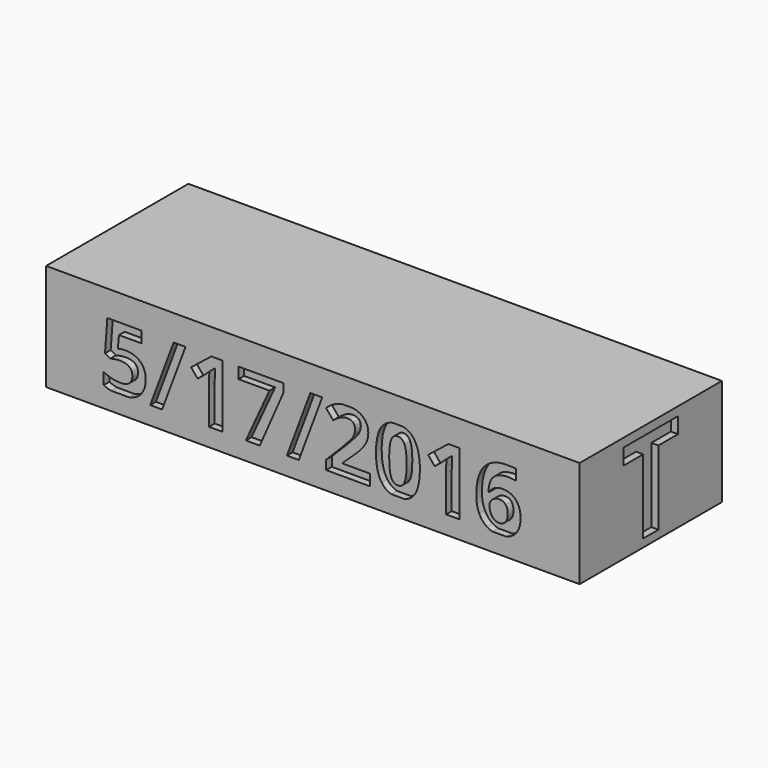
from build123d import *

# Parameters (mm, degrees)
F0_W      = 75
F0_H      = 25
F10_DEPTH = 15
F3_DEPTH  = 1
F4_DEPTH  = 1
F6_DEPTH  = 1
F9_DEPTH  = 1


with BuildPart() as f10:
    # F0 (on Top) → F10 (new body)
    with BuildSketch(Plane.XY):
        with Locations((37.5, -12.5)):
            Rectangle(F0_W, F0_H)
    extrude(amount=F10_DEPTH)

    # F2 (on face) → F3 (cut)
    with BuildSketch(Plane(origin=(0, 0, 0), x_dir=(-1, 0, 0), z_dir=(0, 1, 0))):
        with BuildLine():
            Line((-52.0997875833, 7.6396157188), (-52.0997875833, 2.5338901226))
            Line((-52.0997875833, 2.5338901226), (-50.2343825432, 2.5338901226))
            Line((-50.2343825432, 2.5338901226), (-50.2343825432, 11.3569083711))
            Line((-50.2343825432, 11.3569083711), (-51.767645071, 11.3569083711))
            Line((-51.767645071, 11.3569083711), (-54.6101670368, 9.0937047408))
            Line((-54.6101670368, 9.0937047408), (-53.7102925558, 7.9717582311))
            Line((-53.7102925558, 7.9717582311), (-52.6964854688, 8.786666023))
            add(Edge.make_bspline(
                [(-52.0515110553, 9.3949502752), (-52.5149657237, 8.9314956068), (-52.6964854688, 8.786666023)],
                knots=[0, 0, 0, 1, 1, 1], degree=2))
            Line((-52.0515110553, 9.3949502752), (-52.0804769721, 8.4776962441))
            Line((-52.0804769721, 8.4776962441), (-52.0997875833, 7.6396157188))
        make_face()
        with BuildLine():
            add(Edge.make_bspline(
                [(-65.8613808349, 2.5338901226), (-66.44826022, 2.653121053), (-66.89557787, 2.8892053683)],
                knots=[0.5050353738, 0.5050353738, 0.5050353738, 1, 1, 1], degree=2))
            Line((-65.8613808349, 2.5338901226), (-63.3136468482, 2.5338901226))
            add(Edge.make_bspline(
                [(-61.9115091243, 3.209761514), (-62.4669836865, 2.723721272), (-63.3136468482, 2.5338901226)],
                knots=[0, 0, 0, 0.6094332671, 0.6094332671, 0.6094332671], degree=2))
            add(Edge.make_bspline(
                [(-61.0000482765, 5.4845515111), (-61.0000482765, 4.0072897557), (-61.9115091243, 3.209761514)],
                knots=[0, 0, 0, 1, 1, 1], degree=2))
            add(Edge.make_bspline(
                [(-61.7579897654, 7.4523027904), (-61.0000482765, 6.7339480545), (-61.0000482765, 5.4845515111)],
                knots=[0, 0, 0, 1, 1, 1], degree=2))
            add(Edge.make_bspline(
                [(-63.7942937144, 8.1706575263), (-62.5159312542, 8.1706575263), (-61.7579897654, 7.4523027904)],
                knots=[0, 0, 0, 1, 1, 1], degree=2))
            add(Edge.make_bspline(
                [(-64.7057545621, 8.0856908371), (-64.3369218886, 8.1706575263), (-63.7942937144, 8.1706575263)],
                knots=[0, 0, 0, 1, 1, 1], degree=2))
            Line((-64.7057545621, 8.0856908371), (-64.916240224, 8.0432074925))
            Line((-64.916240224, 8.0432074925), (-64.7540310901, 9.7753693154))
            Line((-64.7540310901, 9.7753693154), (-61.6044704065, 9.7753693154))
            Line((-61.6044704065, 9.7753693154), (-61.6044704065, 11.3569083711))
            Line((-61.6044704065, 11.3569083711), (-66.3896398571, 11.3569083711))
            Line((-66.3896398571, 11.3569083711), (-66.7217823694, 6.8613980882))
            Line((-66.7217823694, 6.8613980882), (-65.9783238389, 6.4616684368))
            add(Edge.make_bspline(
                [(-65.3507289756, 6.5987737762), (-65.7369411992, 6.5350487593), (-65.9783238389, 6.4616684368)],
                knots=[0, 0, 0, 1, 1, 1], degree=2))
            add(Edge.make_bspline(
                [(-64.6458916675, 6.6624987931), (-64.964516752, 6.6624987931), (-65.3507289756, 6.5987737762)],
                knots=[0, 0, 0, 1, 1, 1], degree=2))
            add(Edge.make_bspline(
                [(-62.8770396833, 5.3281355605), (-62.8770396833, 6.6624987931), (-64.6458916675, 6.6624987931)],
                knots=[0, 0, 0, 1, 1, 1], degree=2))
            add(Edge.make_bspline(
                [(-64.5860287728, 3.9281162499), (-62.8770396833, 3.9281162499), (-62.8770396833, 5.3281355605)],
                knots=[0, 0, 0, 1, 1, 1], degree=2))
            add(Edge.make_bspline(
                [(-65.7861832577, 4.0883943227), (-65.1518296804, 3.9281162499), (-64.5860287728, 3.9281162499)],
                knots=[0, 0, 0, 1, 1, 1], degree=2))
            add(Edge.make_bspline(
                [(-66.89557787, 4.501641402), (-66.420536835, 4.2486723955), (-65.7861832577, 4.0883943227)],
                knots=[0, 0, 0, 1, 1, 1], degree=2))
            Line((-66.89557787, 4.501641402), (-66.89557787, 2.8892053683))
        make_face()
        Polygon((-57.0722699623, 11.3569083711), (-60.3608670464, 2.5338901226), (-58.6904991793, 2.5338901226), (-55.3999710341, 11.3569083711), align=None)
        Polygon((-43.6031186637, 9.7753693154), (-46.9168195423, 2.5338901226), (-44.9606546297, 2.5338901226), (-41.6237810177, 10.1731679058), (-41.6237810177, 11.3453220044), (-47.9537993627, 11.3453220044), (-47.9537993627, 9.7753693154), align=None)
        Polygon((-37.8582118374, 11.3569083711), (-41.1468089215, 2.5338901226), (-39.4764410544, 2.5338901226), (-36.1859129091, 11.3569083711), align=None)
        with BuildLine():
            Line((-31.8626651154, 11.4322197548), (-33.2563091831, 11.4322197548))
            add(Edge.make_bspline(
                [(-33.6398088249, 11.3588394323), (-33.4559941639, 11.4036551972), (-33.2563091831, 11.4322197548)],
                knots=[0, 0, 0, 0.3626225608, 0.3626225608, 0.3626225608], degree=2))
            add(Edge.make_bspline(
                [(-34.5754079367, 11.0064207782), (-34.1467123684, 11.2352515207), (-33.6398088249, 11.3588394323)],
                knots=[0, 0, 0, 1, 1, 1], degree=2))
            add(Edge.make_bspline(
                [(-35.6548711017, 10.2214444337), (-35.0041035049, 10.7775900357), (-34.5754079367, 11.0064207782)],
                knots=[0, 0, 0, 1, 1, 1], degree=2))
            Line((-35.6548711017, 10.2214444337), (-34.6410640147, 9.0203244183))
            add(Edge.make_bspline(
                [(-33.633050111, 9.6904026262), (-34.1158153906, 9.4548131698), (-34.6410640147, 9.0203244183)],
                knots=[0, 0, 0, 1, 1, 1], degree=2))
            add(Edge.make_bspline(
                [(-32.6385536352, 9.9259920826), (-33.1502848315, 9.9259920826), (-33.633050111, 9.6904026262)],
                knots=[0, 0, 0, 1, 1, 1], degree=2))
            add(Edge.make_bspline(
                [(-31.8564738824, 9.6662643623), (-32.1499951723, 9.9259920826), (-32.6385536352, 9.9259920826)],
                knots=[0, 0, 0, 1, 1, 1], degree=2))
            add(Edge.make_bspline(
                [(-31.5629525924, 8.8754948344), (-31.5629525924, 9.4065366419), (-31.8564738824, 9.6662643623)],
                knots=[0, 0, 0, 1, 1, 1], degree=2))
            add(Edge.make_bspline(
                [(-31.6961958096, 8.1880370764), (-31.5629525924, 8.5201795887), (-31.5629525924, 8.8754948344)],
                knots=[0, 0, 0, 1, 1, 1], degree=2))
            add(Edge.make_bspline(
                [(-32.1306845612, 7.4667857488), (-31.8294390267, 7.8558945641), (-31.6961958096, 8.1880370764)],
                knots=[0, 0, 0, 1, 1, 1], degree=2))
            add(Edge.make_bspline(
                [(-33.4167712658, 6.0696630298), (-32.4319300956, 7.0776769335), (-32.1306845612, 7.4667857488)],
                knots=[0, 0, 0, 1, 1, 1], degree=2))
            Line((-33.4167712658, 6.0696630298), (-35.6316983683, 3.831563194))
            Line((-35.6316983683, 3.831563194), (-35.6316983683, 2.5338901226))
            Line((-35.6316983683, 2.5338901226), (-29.4638891571, 2.5338901226))
            Line((-29.4638891571, 2.5338901226), (-29.4638891571, 4.1038428116))
            Line((-29.4638891571, 4.1038428116), (-33.3086318432, 4.1038428116))
            Line((-33.3086318432, 4.1038428116), (-33.3086318432, 4.1868784397))
            Line((-33.3086318432, 4.1868784397), (-32.1731679058, 5.254755238))
            add(Edge.make_bspline(
                [(-30.5896977889, 6.8546393743), (-31.0396350294, 6.2936661195), (-32.1731679058, 5.254755238)],
                knots=[0, 0, 0, 1, 1, 1], degree=2))
            add(Edge.make_bspline(
                [(-29.9254127643, 7.9495510283), (-30.1397605484, 7.4156126291), (-30.5896977889, 6.8546393743)],
                knots=[0, 0, 0, 1, 1, 1], degree=2))
            add(Edge.make_bspline(
                [(-29.7110649802, 9.0937047408), (-29.7110649802, 8.4834894274), (-29.9254127643, 7.9495510283)],
                knots=[0, 0, 0, 1, 1, 1], degree=2))
            add(Edge.make_bspline(
                [(-30.0615525731, 10.3363425702), (-29.7110649802, 9.7927488655), (-29.7110649802, 9.0937047408)],
                knots=[0, 0, 0, 1, 1, 1], degree=2))
            add(Edge.make_bspline(
                [(-31.0454282128, 11.1811818094), (-30.4120401661, 10.879936275), (-30.0615525731, 10.3363425702)],
                knots=[0, 0, 0, 1, 1, 1], degree=2))
            add(Edge.make_bspline(
                [(-31.8626651154, 11.4322197548), (-31.4202366723, 11.3594443694), (-31.0454282128, 11.1811818094)],
                knots=[0.4082482905, 0.4082482905, 0.4082482905, 1, 1, 1], degree=2))
        make_face()
        with BuildLine():
            Line((-24.8723001128, 11.4322197548), (-26.2531848866, 11.4322197548))
            add(Edge.make_bspline(
                [(-27.8707637347, 10.3884812204), (-27.2968374305, 11.230288728), (-26.2531848866, 11.4322197548)],
                knots=[0, 0, 0, 0.7601220886, 0.7601220886, 0.7601220886], degree=2))
            add(Edge.make_bspline(
                [(-28.6258086318, 6.9444337163), (-28.6258086318, 9.2810176692), (-27.8707637347, 10.3884812204)],
                knots=[0, 0, 0, 1, 1, 1], degree=2))
            add(Edge.make_bspline(
                [(-27.8504875929, 3.5592835763), (-28.6258086318, 4.7063338805), (-28.6258086318, 6.9444337163)],
                knots=[0, 0, 0, 1, 1, 1], degree=2))
            add(Edge.make_bspline(
                [(-26.4628241793, 2.5338901226), (-27.3276649487, 2.785792541), (-27.8504875929, 3.5592835763)],
                knots=[0.3256694736, 0.3256694736, 0.3256694736, 1, 1, 1], degree=2))
            Line((-26.4628241793, 2.5338901226), (-24.5946173829, 2.5338901226))
            add(Edge.make_bspline(
                [(-23.214975379, 3.5235589456), (-23.7214963425, 2.7799293168), (-24.5946173829, 2.5338901226)],
                knots=[0, 0, 0, 0.6691374514, 0.6691374514, 0.6691374514], degree=2))
            add(Edge.make_bspline(
                [(-22.4579994207, 6.9444337163), (-22.4579994207, 4.6348846191), (-23.214975379, 3.5235589456)],
                knots=[0, 0, 0, 1, 1, 1], degree=2))
            add(Edge.make_bspline(
                [(-23.2391136429, 10.3373081008), (-22.4579994207, 9.17867143), (-22.4579994207, 6.9444337163)],
                knots=[0, 0, 0, 1, 1, 1], degree=2))
            add(Edge.make_bspline(
                [(-24.8723001128, 11.4322197548), (-23.8370403423, 11.2242203866), (-23.2391136429, 10.3373081008)],
                knots=[0.234520788, 0.234520788, 0.234520788, 1, 1, 1], degree=2))
        make_face()
        with BuildLine():
            add(Edge.make_bspline(
                [(-26.7719899585, 6.9444337163), (-26.7719899585, 5.3223423771), (-26.4919860964, 4.6194361302)],
                knots=[0, 0, 0, 1, 1, 1], degree=2))
            add(Edge.make_bspline(
                [(-26.4890895047, 9.277155547), (-26.7719899585, 8.5684561166), (-26.7719899585, 6.9444337163)],
                knots=[0, 0, 0, 1, 1, 1], degree=2))
            add(Edge.make_bspline(
                [(-25.5476972096, 9.9858549773), (-26.2061890509, 9.9858549773), (-26.4890895047, 9.277155547)],
                knots=[0, 0, 0, 1, 1, 1], degree=2))
            add(Edge.make_bspline(
                [(-24.6092015062, 9.277155547), (-24.9027227962, 9.9858549773), (-25.5476972096, 9.9858549773)],
                knots=[0, 0, 0, 1, 1, 1], degree=2))
            add(Edge.make_bspline(
                [(-24.3156802163, 6.9444337163), (-24.3156802163, 8.5684561166), (-24.6092015062, 9.277155547)],
                knots=[0, 0, 0, 1, 1, 1], degree=2))
            add(Edge.make_bspline(
                [(-24.605339384, 4.6281259052), (-24.3156802163, 5.3397219272), (-24.3156802163, 6.9444337163)],
                knots=[0, 0, 0, 1, 1, 1], degree=2))
            add(Edge.make_bspline(
                [(-25.5476972096, 3.9165298832), (-24.8949985517, 3.9165298832), (-24.605339384, 4.6281259052)],
                knots=[0, 0, 0, 1, 1, 1], degree=2))
            add(Edge.make_bspline(
                [(-26.4919860964, 4.6194361302), (-26.2119822342, 3.9165298832), (-25.5476972096, 3.9165298832)],
                knots=[0, 0, 0, 1, 1, 1], degree=2))
        make_face(mode=Mode.SUBTRACT)
        with BuildLine():
            Line((-18.7773969296, 7.6396157188), (-18.7773969296, 2.5338901226))
            Line((-18.7773969296, 2.5338901226), (-16.9119918895, 2.5338901226))
            Line((-16.9119918895, 2.5338901226), (-16.9119918895, 11.3569083711))
            Line((-16.9119918895, 11.3569083711), (-18.4452544173, 11.3569083711))
            Line((-18.4452544173, 11.3569083711), (-21.2877763831, 9.0937047408))
            Line((-21.2877763831, 9.0937047408), (-20.3879019021, 7.9717582311))
            Line((-20.3879019021, 7.9717582311), (-19.3740948151, 8.786666023))
            add(Edge.make_bspline(
                [(-18.7291204017, 9.3949502752), (-19.19257507, 8.9314956068), (-19.3740948151, 8.786666023)],
                knots=[0, 0, 0, 1, 1, 1], degree=2))
            Line((-18.7291204017, 9.3949502752), (-18.7580863184, 8.4776962441))
            Line((-18.7580863184, 8.4776962441), (-18.7773969296, 7.6396157188))
        make_face()
        with BuildLine():
            Line((-9.3795725236, 11.4322197548), (-10.7239989701, 11.4322197548))
            add(Edge.make_bspline(
                [(-13.4215989186, 10.1799266197), (-12.4751259671, 11.2732802908), (-10.7239989701, 11.4322197548)],
                knots=[0, 0, 0, 0.8546312431, 0.8546312431, 0.8546312431], degree=2))
            add(Edge.make_bspline(
                [(-14.5290624698, 6.2820797528), (-14.5290624698, 8.9005986289), (-13.4215989186, 10.1799266197)],
                knots=[0, 0, 0, 1, 1, 1], degree=2))
            add(Edge.make_bspline(
                [(-14.1341604712, 4.1868784397), (-14.5290624698, 5.0558559428), (-14.5290624698, 6.2820797528)],
                knots=[0, 0, 0, 1, 1, 1], degree=2))
            add(Edge.make_bspline(
                [(-13.011248431, 2.8650671044), (-13.7392584725, 3.3179009366), (-14.1341604712, 4.1868784397)],
                knots=[0, 0, 0, 1, 1, 1], degree=2))
            add(Edge.make_bspline(
                [(-12.2521177785, 2.5338901226), (-12.6605813225, 2.646946582), (-13.011248431, 2.8650671044)],
                knots=[0.5183210553, 0.5183210553, 0.5183210553, 1, 1, 1], degree=2))
            Line((-12.2521177785, 2.5338901226), (-10.3124399882, 2.5338901226))
            add(Edge.make_bspline(
                [(-9.0979530752, 3.2367963696), (-9.5885475738, 2.7289567311), (-10.3124399882, 2.5338901226)],
                knots=[0, 0, 0, 0.6158893602, 0.6158893602, 0.6158893602], degree=2))
            add(Edge.make_bspline(
                [(-8.301390364, 5.4729651443), (-8.301390364, 4.061359467), (-9.0979530752, 3.2367963696)],
                knots=[0, 0, 0, 1, 1, 1], degree=2))
            add(Edge.make_bspline(
                [(-8.971468572, 7.5247175823), (-8.301390364, 6.7822245824), (-8.301390364, 5.4729651443)],
                knots=[0, 0, 0, 1, 1, 1], degree=2))
            add(Edge.make_bspline(
                [(-10.8233561842, 8.2672105822), (-9.64154678, 8.2672105822), (-8.971468572, 7.5247175823)],
                knots=[0, 0, 0, 1, 1, 1], degree=2))
            add(Edge.make_bspline(
                [(-12.7370377522, 7.2418171285), (-12.1384088056, 8.2672105822), (-10.8233561842, 8.2672105822)],
                knots=[0, 0, 0, 1, 1, 1], degree=2))
            Line((-12.7370377522, 7.2418171285), (-12.814280197, 7.2418171285))
            add(Edge.make_bspline(
                [(-12.4589649512, 8.852322101), (-12.7602104857, 8.2845901323), (-12.814280197, 7.2418171285)],
                knots=[0, 0, 0, 1, 1, 1], degree=2))
            add(Edge.make_bspline(
                [(-11.5513662257, 9.7097132374), (-12.1577194168, 9.4200540697), (-12.4589649512, 8.852322101)],
                knots=[0, 0, 0, 1, 1, 1], degree=2))
            add(Edge.make_bspline(
                [(-9.985275659, 9.9993724051), (-10.9450130347, 9.9993724051), (-11.5513662257, 9.7097132374)],
                knots=[0, 0, 0, 1, 1, 1], degree=2))
            add(Edge.make_bspline(
                [(-8.923192044, 9.8777155547), (-9.4600270349, 9.9993724051), (-9.985275659, 9.9993724051)],
                knots=[0, 0, 0, 1, 1, 1], degree=2))
            Line((-8.923192044, 9.8777155547), (-8.923192044, 11.3684947379))
            add(Edge.make_bspline(
                [(-9.3795725236, 11.4322197548), (-9.117915507, 11.4097199755), (-8.923192044, 11.3684947379)],
                knots=[0.5457768229, 0.5457768229, 0.5457768229, 1, 1, 1], degree=2))
        make_face()
        with BuildLine():
            add(Edge.make_bspline(
                [(-11.342811625, 3.9030124553), (-10.7461137395, 3.9030124553), (-10.4255575939, 4.3046731679)],
                knots=[0, 0, 0, 1, 1, 1], degree=2))
            add(Edge.make_bspline(
                [(-12.299652409, 4.3983296321), (-11.9221299604, 3.9030124553), (-11.342811625, 3.9030124553)],
                knots=[0, 0, 0, 1, 1, 1], degree=2))
            add(Edge.make_bspline(
                [(-12.6771748576, 5.6120015448), (-12.6771748576, 4.8936468089), (-12.299652409, 4.3983296321)],
                knots=[0, 0, 0, 1, 1, 1], degree=2))
            add(Edge.make_bspline(
                [(-12.275514145, 6.4684271507), (-12.6771748576, 6.1005600077), (-12.6771748576, 5.6120015448)],
                knots=[0, 0, 0, 1, 1, 1], degree=2))
            add(Edge.make_bspline(
                [(-11.3061214637, 6.8362942937), (-11.8738534325, 6.8362942937), (-12.275514145, 6.4684271507)],
                knots=[0, 0, 0, 1, 1, 1], degree=2))
            add(Edge.make_bspline(
                [(-10.4043159216, 6.465530559), (-10.7036303949, 6.8362942937), (-11.3061214637, 6.8362942937)],
                knots=[0, 0, 0, 1, 1, 1], degree=2))
            add(Edge.make_bspline(
                [(-10.1050014483, 5.4478613498), (-10.1050014483, 6.0947668244), (-10.4043159216, 6.465530559)],
                knots=[0, 0, 0, 1, 1, 1], degree=2))
            add(Edge.make_bspline(
                [(-10.4255575939, 4.3046731679), (-10.1050014483, 4.7063338805), (-10.1050014483, 5.4478613498)],
                knots=[0, 0, 0, 1, 1, 1], degree=2))
        make_face(mode=Mode.SUBTRACT)
    extrude(amount=-F3_DEPTH, mode=Mode.SUBTRACT)

    # F1 (on face) → F4 (cut)
    with BuildSketch(Plane.XZ.offset(25)):
        with BuildLine():
            add(Edge.make_bspline(
                [(9.1386191651, 2.5338901226), (8.55173978, 2.653121053), (8.10442213, 2.8892053683)],
                knots=[0.5050353738, 0.5050353738, 0.5050353738, 1, 1, 1], degree=2))
            Line((9.1386191651, 2.5338901226), (11.6863531518, 2.5338901226))
            add(Edge.make_bspline(
                [(13.0884908757, 3.209761514), (12.5330163135, 2.723721272), (11.6863531518, 2.5338901226)],
                knots=[0, 0, 0, 0.6094332671, 0.6094332671, 0.6094332671], degree=2))
            add(Edge.make_bspline(
                [(13.9999517235, 5.4845515111), (13.9999517235, 4.0072897557), (13.0884908757, 3.209761514)],
                knots=[0, 0, 0, 1, 1, 1], degree=2))
            add(Edge.make_bspline(
                [(13.2420102346, 7.4523027904), (13.9999517235, 6.7339480545), (13.9999517235, 5.4845515111)],
                knots=[0, 0, 0, 1, 1, 1], degree=2))
            add(Edge.make_bspline(
                [(11.2057062856, 8.1706575263), (12.4840687458, 8.1706575263), (13.2420102346, 7.4523027904)],
                knots=[0, 0, 0, 1, 1, 1], degree=2))
            add(Edge.make_bspline(
                [(10.2942454379, 8.0856908371), (10.6630781114, 8.1706575263), (11.2057062856, 8.1706575263)],
                knots=[0, 0, 0, 1, 1, 1], degree=2))
            Line((10.2942454379, 8.0856908371), (10.083759776, 8.0432074925))
            Line((10.083759776, 8.0432074925), (10.2459689099, 9.7753693154))
            Line((10.2459689099, 9.7753693154), (13.3955295935, 9.7753693154))
            Line((13.3955295935, 9.7753693154), (13.3955295935, 11.3569083711))
            Line((13.3955295935, 11.3569083711), (8.6103601429, 11.3569083711))
            Line((8.6103601429, 11.3569083711), (8.2782176306, 6.8613980882))
            Line((8.2782176306, 6.8613980882), (9.0216761611, 6.4616684368))
            add(Edge.make_bspline(
                [(9.6492710244, 6.5987737762), (9.2630588008, 6.5350487593), (9.0216761611, 6.4616684368)],
                knots=[0, 0, 0, 1, 1, 1], degree=2))
            add(Edge.make_bspline(
                [(10.3541083325, 6.6624987931), (10.035483248, 6.6624987931), (9.6492710244, 6.5987737762)],
                knots=[0, 0, 0, 1, 1, 1], degree=2))
            add(Edge.make_bspline(
                [(12.1229603167, 5.3281355605), (12.1229603167, 6.6624987931), (10.3541083325, 6.6624987931)],
                knots=[0, 0, 0, 1, 1, 1], degree=2))
            add(Edge.make_bspline(
                [(10.4139712272, 3.9281162499), (12.1229603167, 3.9281162499), (12.1229603167, 5.3281355605)],
                knots=[0, 0, 0, 1, 1, 1], degree=2))
            add(Edge.make_bspline(
                [(9.2138167423, 4.0883943227), (9.8481703196, 3.9281162499), (10.4139712272, 3.9281162499)],
                knots=[0, 0, 0, 1, 1, 1], degree=2))
            add(Edge.make_bspline(
                [(8.10442213, 4.501641402), (8.579463165, 4.2486723955), (9.2138167423, 4.0883943227)],
                knots=[0, 0, 0, 1, 1, 1], degree=2))
            Line((8.10442213, 4.501641402), (8.10442213, 2.8892053683))
        make_face()
        Polygon((17.9277300377, 11.3569083711), (14.6391329536, 2.5338901226), (16.3095008207, 2.5338901226), (19.6000289659, 11.3569083711), align=None)
        with BuildLine():
            Line((22.9002124167, 7.6396157188), (22.9002124167, 2.5338901226))
            Line((22.9002124167, 2.5338901226), (24.7656174568, 2.5338901226))
            Line((24.7656174568, 2.5338901226), (24.7656174568, 11.3569083711))
            Line((24.7656174568, 11.3569083711), (23.232354929, 11.3569083711))
            Line((23.232354929, 11.3569083711), (20.3898329632, 9.0937047408))
            Line((20.3898329632, 9.0937047408), (21.2897074442, 7.9717582311))
            Line((21.2897074442, 7.9717582311), (22.3035145312, 8.786666023))
            add(Edge.make_bspline(
                [(22.9484889447, 9.3949502752), (22.4850342763, 8.9314956068), (22.3035145312, 8.786666023)],
                knots=[0, 0, 0, 1, 1, 1], degree=2))
            Line((22.9484889447, 9.3949502752), (22.9195230279, 8.4776962441))
            Line((22.9195230279, 8.4776962441), (22.9002124167, 7.6396157188))
        make_face()
        Polygon((31.3968813363, 9.7753693154), (28.0831804577, 2.5338901226), (30.0393453703, 2.5338901226), (33.3762189823, 10.1731679058), (33.3762189823, 11.3453220044), (27.0462006373, 11.3453220044), (27.0462006373, 9.7753693154), align=None)
        Polygon((33.8531910785, 2.5338901226), (35.5235589456, 2.5338901226), (38.8140870909, 11.3569083711), (37.1417881626, 11.3569083711), align=None)
        with BuildLine():
            Line((43.1373348846, 11.4322197548), (41.7436908169, 11.4322197548))
            add(Edge.make_bspline(
                [(41.3601911751, 11.3588394323), (41.5440058361, 11.4036551972), (41.7436908169, 11.4322197548)],
                knots=[0, 0, 0, 0.3626225608, 0.3626225608, 0.3626225608], degree=2))
            add(Edge.make_bspline(
                [(40.4245920633, 11.0064207782), (40.8532876316, 11.2352515207), (41.3601911751, 11.3588394323)],
                knots=[0, 0, 0, 1, 1, 1], degree=2))
            add(Edge.make_bspline(
                [(39.3451288983, 10.2214444337), (39.9958964951, 10.7775900357), (40.4245920633, 11.0064207782)],
                knots=[0, 0, 0, 1, 1, 1], degree=2))
            Line((39.3451288983, 10.2214444337), (40.3589359853, 9.0203244183))
            add(Edge.make_bspline(
                [(41.366949889, 9.6904026262), (40.8841846094, 9.4548131698), (40.3589359853, 9.0203244183)],
                knots=[0, 0, 0, 1, 1, 1], degree=2))
            add(Edge.make_bspline(
                [(42.3614463648, 9.9259920826), (41.8497151685, 9.9259920826), (41.366949889, 9.6904026262)],
                knots=[0, 0, 0, 1, 1, 1], degree=2))
            add(Edge.make_bspline(
                [(43.1435261176, 9.6662643623), (42.8500048277, 9.9259920826), (42.3614463648, 9.9259920826)],
                knots=[0, 0, 0, 1, 1, 1], degree=2))
            add(Edge.make_bspline(
                [(43.4370474076, 8.8754948344), (43.4370474076, 9.4065366419), (43.1435261176, 9.6662643623)],
                knots=[0, 0, 0, 1, 1, 1], degree=2))
            add(Edge.make_bspline(
                [(43.3038041904, 8.1880370764), (43.4370474076, 8.5201795887), (43.4370474076, 8.8754948344)],
                knots=[0, 0, 0, 1, 1, 1], degree=2))
            add(Edge.make_bspline(
                [(42.8693154388, 7.4667857488), (43.1705609733, 7.8558945641), (43.3038041904, 8.1880370764)],
                knots=[0, 0, 0, 1, 1, 1], degree=2))
            add(Edge.make_bspline(
                [(41.5832287342, 6.0696630298), (42.5680699044, 7.0776769335), (42.8693154388, 7.4667857488)],
                knots=[0, 0, 0, 1, 1, 1], degree=2))
            Line((41.5832287342, 6.0696630298), (39.3683016317, 3.831563194))
            Line((39.3683016317, 3.831563194), (39.3683016317, 2.5338901226))
            Line((39.3683016317, 2.5338901226), (45.5361108429, 2.5338901226))
            Line((45.5361108429, 2.5338901226), (45.5361108429, 4.1038428116))
            Line((45.5361108429, 4.1038428116), (41.6913681568, 4.1038428116))
            Line((41.6913681568, 4.1038428116), (41.6913681568, 4.1868784397))
            Line((41.6913681568, 4.1868784397), (42.8268320942, 5.254755238))
            add(Edge.make_bspline(
                [(44.4103022111, 6.8546393743), (43.9603649706, 6.2936661195), (42.8268320942, 5.254755238)],
                knots=[0, 0, 0, 1, 1, 1], degree=2))
            add(Edge.make_bspline(
                [(45.0745872357, 7.9495510283), (44.8602394516, 7.4156126291), (44.4103022111, 6.8546393743)],
                knots=[0, 0, 0, 1, 1, 1], degree=2))
            add(Edge.make_bspline(
                [(45.2889350198, 9.0937047408), (45.2889350198, 8.4834894274), (45.0745872357, 7.9495510283)],
                knots=[0, 0, 0, 1, 1, 1], degree=2))
            add(Edge.make_bspline(
                [(44.9384474269, 10.3363425702), (45.2889350198, 9.7927488655), (45.2889350198, 9.0937047408)],
                knots=[0, 0, 0, 1, 1, 1], degree=2))
            add(Edge.make_bspline(
                [(43.9545717872, 11.1811818094), (44.5879598339, 10.879936275), (44.9384474269, 10.3363425702)],
                knots=[0, 0, 0, 1, 1, 1], degree=2))
            add(Edge.make_bspline(
                [(43.1373348846, 11.4322197548), (43.5797633277, 11.3594443694), (43.9545717872, 11.1811818094)],
                knots=[0.4082482905, 0.4082482905, 0.4082482905, 1, 1, 1], degree=2))
        make_face()
        with BuildLine():
            Line((50.1276998872, 11.4322197548), (48.7468151134, 11.4322197548))
            add(Edge.make_bspline(
                [(47.1292362653, 10.3884812204), (47.7031625695, 11.230288728), (48.7468151134, 11.4322197548)],
                knots=[0, 0, 0, 0.7601220886, 0.7601220886, 0.7601220886], degree=2))
            add(Edge.make_bspline(
                [(46.3741913682, 6.9444337163), (46.3741913682, 9.2810176692), (47.1292362653, 10.3884812204)],
                knots=[0, 0, 0, 1, 1, 1], degree=2))
            add(Edge.make_bspline(
                [(47.1495124071, 3.5592835763), (46.3741913682, 4.7063338805), (46.3741913682, 6.9444337163)],
                knots=[0, 0, 0, 1, 1, 1], degree=2))
            add(Edge.make_bspline(
                [(48.5371758207, 2.5338901226), (47.6723350513, 2.785792541), (47.1495124071, 3.5592835763)],
                knots=[0.3256694736, 0.3256694736, 0.3256694736, 1, 1, 1], degree=2))
            Line((48.5371758207, 2.5338901226), (50.4053826171, 2.5338901226))
            add(Edge.make_bspline(
                [(51.785024621, 3.5235589456), (51.2785036575, 2.7799293168), (50.4053826171, 2.5338901226)],
                knots=[0, 0, 0, 0.6691374514, 0.6691374514, 0.6691374514], degree=2))
            add(Edge.make_bspline(
                [(52.5420005793, 6.9444337163), (52.5420005793, 4.6348846191), (51.785024621, 3.5235589456)],
                knots=[0, 0, 0, 1, 1, 1], degree=2))
            add(Edge.make_bspline(
                [(51.7608863571, 10.3373081008), (52.5420005793, 9.17867143), (52.5420005793, 6.9444337163)],
                knots=[0, 0, 0, 1, 1, 1], degree=2))
            add(Edge.make_bspline(
                [(50.1276998872, 11.4322197548), (51.1629596577, 11.2242203866), (51.7608863571, 10.3373081008)],
                knots=[0.234520788, 0.234520788, 0.234520788, 1, 1, 1], degree=2))
        make_face()
        with BuildLine():
            add(Edge.make_bspline(
                [(48.2280100415, 6.9444337163), (48.2280100415, 5.3223423771), (48.5080139036, 4.6194361302)],
                knots=[0, 0, 0, 1, 1, 1], degree=2))
            add(Edge.make_bspline(
                [(48.5109104953, 9.277155547), (48.2280100415, 8.5684561166), (48.2280100415, 6.9444337163)],
                knots=[0, 0, 0, 1, 1, 1], degree=2))
            add(Edge.make_bspline(
                [(49.4523027904, 9.9858549773), (48.7938109491, 9.9858549773), (48.5109104953, 9.277155547)],
                knots=[0, 0, 0, 1, 1, 1], degree=2))
            add(Edge.make_bspline(
                [(50.3907984938, 9.277155547), (50.0972772038, 9.9858549773), (49.4523027904, 9.9858549773)],
                knots=[0, 0, 0, 1, 1, 1], degree=2))
            add(Edge.make_bspline(
                [(50.6843197837, 6.9444337163), (50.6843197837, 8.5684561166), (50.3907984938, 9.277155547)],
                knots=[0, 0, 0, 1, 1, 1], degree=2))
            add(Edge.make_bspline(
                [(50.394660616, 4.6281259052), (50.6843197837, 5.3397219272), (50.6843197837, 6.9444337163)],
                knots=[0, 0, 0, 1, 1, 1], degree=2))
            add(Edge.make_bspline(
                [(49.4523027904, 3.9165298832), (50.1050014483, 3.9165298832), (50.394660616, 4.6281259052)],
                knots=[0, 0, 0, 1, 1, 1], degree=2))
            add(Edge.make_bspline(
                [(48.5080139036, 4.6194361302), (48.7880177658, 3.9165298832), (49.4523027904, 3.9165298832)],
                knots=[0, 0, 0, 1, 1, 1], degree=2))
        make_face(mode=Mode.SUBTRACT)
        with BuildLine():
            Line((56.2226030704, 7.6396157188), (56.2226030704, 2.5338901226))
            Line((56.2226030704, 2.5338901226), (58.0880081105, 2.5338901226))
            Line((58.0880081105, 2.5338901226), (58.0880081105, 11.3569083711))
            Line((58.0880081105, 11.3569083711), (56.5547455827, 11.3569083711))
            Line((56.5547455827, 11.3569083711), (53.7122236169, 9.0937047408))
            Line((53.7122236169, 9.0937047408), (54.6120980979, 7.9717582311))
            Line((54.6120980979, 7.9717582311), (55.6259051849, 8.786666023))
            add(Edge.make_bspline(
                [(56.2708795983, 9.3949502752), (55.80742493, 8.9314956068), (55.6259051849, 8.786666023)],
                knots=[0, 0, 0, 1, 1, 1], degree=2))
            Line((56.2708795983, 9.3949502752), (56.2419136816, 8.4776962441))
            Line((56.2419136816, 8.4776962441), (56.2226030704, 7.6396157188))
        make_face()
        with BuildLine():
            Line((65.6204274764, 11.4322197548), (64.2760010299, 11.4322197548))
            add(Edge.make_bspline(
                [(61.5784010814, 10.1799266197), (62.5248740329, 11.2732802908), (64.2760010299, 11.4322197548)],
                knots=[0, 0, 0, 0.8546312431, 0.8546312431, 0.8546312431], degree=2))
            add(Edge.make_bspline(
                [(60.4709375302, 6.2820797528), (60.4709375302, 8.9005986289), (61.5784010814, 10.1799266197)],
                knots=[0, 0, 0, 1, 1, 1], degree=2))
            add(Edge.make_bspline(
                [(60.8658395288, 4.1868784397), (60.4709375302, 5.0558559428), (60.4709375302, 6.2820797528)],
                knots=[0, 0, 0, 1, 1, 1], degree=2))
            add(Edge.make_bspline(
                [(61.988751569, 2.8650671044), (61.2607415275, 3.3179009366), (60.8658395288, 4.1868784397)],
                knots=[0, 0, 0, 1, 1, 1], degree=2))
            add(Edge.make_bspline(
                [(62.7478822215, 2.5338901226), (62.3394186775, 2.646946582), (61.988751569, 2.8650671044)],
                knots=[0.5183210553, 0.5183210553, 0.5183210553, 1, 1, 1], degree=2))
            Line((62.7478822215, 2.5338901226), (64.6875600118, 2.5338901226))
            add(Edge.make_bspline(
                [(65.9020469248, 3.2367963696), (65.4114524262, 2.7289567311), (64.6875600118, 2.5338901226)],
                knots=[0, 0, 0, 0.6158893602, 0.6158893602, 0.6158893602], degree=2))
            add(Edge.make_bspline(
                [(66.698609636, 5.4729651443), (66.698609636, 4.061359467), (65.9020469248, 3.2367963696)],
                knots=[0, 0, 0, 1, 1, 1], degree=2))
            add(Edge.make_bspline(
                [(66.028531428, 7.5247175823), (66.698609636, 6.7822245824), (66.698609636, 5.4729651443)],
                knots=[0, 0, 0, 1, 1, 1], degree=2))
            add(Edge.make_bspline(
                [(64.1766438158, 8.2672105822), (65.35845322, 8.2672105822), (66.028531428, 7.5247175823)],
                knots=[0, 0, 0, 1, 1, 1], degree=2))
            add(Edge.make_bspline(
                [(62.2629622478, 7.2418171285), (62.8615911944, 8.2672105822), (64.1766438158, 8.2672105822)],
                knots=[0, 0, 0, 1, 1, 1], degree=2))
            Line((62.2629622478, 7.2418171285), (62.185719803, 7.2418171285))
            add(Edge.make_bspline(
                [(62.5410350488, 8.852322101), (62.2397895143, 8.2845901323), (62.185719803, 7.2418171285)],
                knots=[0, 0, 0, 1, 1, 1], degree=2))
            add(Edge.make_bspline(
                [(63.4486337743, 9.7097132374), (62.8422805832, 9.4200540697), (62.5410350488, 8.852322101)],
                knots=[0, 0, 0, 1, 1, 1], degree=2))
            add(Edge.make_bspline(
                [(65.014724341, 9.9993724051), (64.0549869653, 9.9993724051), (63.4486337743, 9.7097132374)],
                knots=[0, 0, 0, 1, 1, 1], degree=2))
            add(Edge.make_bspline(
                [(66.076807956, 9.8777155547), (65.5399729651, 9.9993724051), (65.014724341, 9.9993724051)],
                knots=[0, 0, 0, 1, 1, 1], degree=2))
            Line((66.076807956, 9.8777155547), (66.076807956, 11.3684947379))
            add(Edge.make_bspline(
                [(65.6204274764, 11.4322197548), (65.882084493, 11.4097199755), (66.076807956, 11.3684947379)],
                knots=[0.5457768229, 0.5457768229, 0.5457768229, 1, 1, 1], degree=2))
        make_face()
        with BuildLine():
            add(Edge.make_bspline(
                [(63.657188375, 3.9030124553), (64.2538862605, 3.9030124553), (64.5744424061, 4.3046731679)],
                knots=[0, 0, 0, 1, 1, 1], degree=2))
            add(Edge.make_bspline(
                [(62.700347591, 4.3983296321), (63.0778700396, 3.9030124553), (63.657188375, 3.9030124553)],
                knots=[0, 0, 0, 1, 1, 1], degree=2))
            add(Edge.make_bspline(
                [(62.3228251424, 5.6120015448), (62.3228251424, 4.8936468089), (62.700347591, 4.3983296321)],
                knots=[0, 0, 0, 1, 1, 1], degree=2))
            add(Edge.make_bspline(
                [(62.724485855, 6.4684271507), (62.3228251424, 6.1005600077), (62.3228251424, 5.6120015448)],
                knots=[0, 0, 0, 1, 1, 1], degree=2))
            add(Edge.make_bspline(
                [(63.6938785363, 6.8362942937), (63.1261465675, 6.8362942937), (62.724485855, 6.4684271507)],
                knots=[0, 0, 0, 1, 1, 1], degree=2))
            add(Edge.make_bspline(
                [(64.5956840784, 6.465530559), (64.2963696051, 6.8362942937), (63.6938785363, 6.8362942937)],
                knots=[0, 0, 0, 1, 1, 1], degree=2))
            add(Edge.make_bspline(
                [(64.8949985517, 5.4478613498), (64.8949985517, 6.0947668244), (64.5956840784, 6.465530559)],
                knots=[0, 0, 0, 1, 1, 1], degree=2))
            add(Edge.make_bspline(
                [(64.5744424061, 4.3046731679), (64.8949985517, 4.7063338805), (64.8949985517, 5.4478613498)],
                knots=[0, 0, 0, 1, 1, 1], degree=2))
        make_face(mode=Mode.SUBTRACT)
    extrude(amount=-F4_DEPTH, mode=Mode.SUBTRACT)

    # F5 (on face) → F6 (cut)
    with BuildSketch(Plane(origin=(0, 0, 0), x_dir=(0, -1, 0), z_dir=(-1, 0, 0))):
        with BuildLine():
            Line((12.5, 1.1167105401), (12.5, 4.435309898))
            Line((12.5, 4.435309898), (9.6103424884, 13.7752389873))
            Line((9.6103424884, 13.7752389873), (5.9560200936, 13.7752389873))
            Line((5.9560200936, 13.7752389873), (5.9560200936, 1.1167105401))
            Line((5.9560200936, 1.1167105401), (8.355294691, 1.1167105401))
            Line((8.355294691, 1.1167105401), (8.355294691, 7.0040760359))
            add(Edge.make_bspline(
                [(8.1890631946, 11.0462719222), (8.355294691, 8.0180881636), (8.355294691, 7.0040760359)],
                knots=[0, 0, 0, 1, 1, 1], degree=2))
            Line((8.1890631946, 11.0462719222), (8.2666378929, 11.0462719222))
            Line((8.2666378929, 11.0462719222), (11.314215326, 1.1167105401))
            Line((11.314215326, 1.1167105401), (12.5, 1.1167105401))
        make_face()
        with BuildLine():
            Line((12.6052799477, 4.0950248497), (12.5, 4.435309898))
            Line((12.5, 4.435309898), (12.5, 1.1167105401))
            Line((12.5, 1.1167105401), (13.774441472, 1.1167105401))
            Line((13.774441472, 1.1167105401), (17.0381198504, 11.0296487725))
            Line((17.0381198504, 11.0296487725), (17.1156945487, 11.0296487725))
            add(Edge.make_bspline(
                [(16.9993325012, 8.0873512871), (17.0131851259, 8.6414562749), (17.1156945487, 11.0296487725)],
                knots=[0, 0, 0, 1, 1, 1], degree=2))
            add(Edge.make_bspline(
                [(16.9854798766, 7.1093559836), (16.9854798766, 7.5332462993), (16.9993325012, 8.0873512871)],
                knots=[0, 0, 0, 1, 1, 1], degree=2))
            Line((16.9854798766, 7.1093559836), (16.9854798766, 1.1167105401))
            Line((16.9854798766, 1.1167105401), (19.4872638966, 1.1167105401))
            Line((19.4872638966, 1.1167105401), (19.4872638966, 13.7752389873))
            Line((19.4872638966, 13.7752389873), (15.8357120268, 13.7752389873))
            Line((15.8357120268, 13.7752389873), (12.6579199215, 4.0950248497))
            Line((12.6579199215, 4.0950248497), (12.6052799477, 4.0950248497))
        make_face()
    extrude(amount=-F6_DEPTH, mode=Mode.SUBTRACT)

    # F8 (on face) → F9 (cut)
    with BuildSketch(Plane.YZ.offset(75)):
        Polygon((-7.720843514, 13.7752389873), (-17.2791545542, 13.7752389873), (-17.2791545542, 11.5421958863), (-13.8409331047, 11.5421958863), (-13.8409331047, 1.1167105401), (-11.1562944386, 1.1167105401), (-11.1562944386, 11.5421958863), (-7.720843514, 11.5421958863), align=None)
    extrude(amount=-F9_DEPTH, mode=Mode.SUBTRACT)


solid = f10.part
